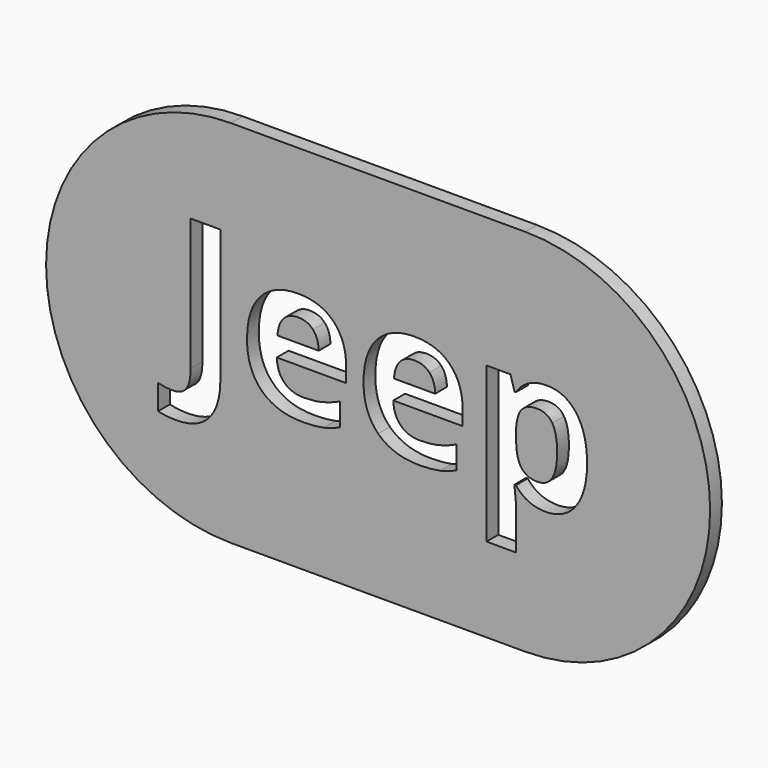
from build123d import *

# Parameters (mm, degrees)
F1_DEPTH = 2.54
F2_DEPTH = 2.54


with BuildPart() as f1:
    # F0 (on Front) → F1 (new body)
    with BuildSketch(Plane.XZ):
        with BuildLine():
            ThreePointArc((15.1273975771, 34.0092331171), (-16.7603171739, 2.121518366), (15.1273975771, -29.766196385))
            Line((15.1273975771, -29.766196385), (65.9273975771, -29.766196385))
            ThreePointArc((65.9273975771, -29.766196385), (97.8151123282, 2.121518366), (65.9273975771, 34.0092331171))
            Line((65.9273975771, 34.0092331171), (15.1273975771, 34.0092331171))
        make_face()
        with BuildLine():
            ThreePointArc((15.1273975771, -22.7641476952), (-10.2726024229, 2.6358523048), (15.1273975771, 28.0358523048))
            Line((15.1273975771, 28.0358523048), (65.9273975771, 28.0358523048))
            ThreePointArc((65.9273975771, 28.0358523048), (91.3273975771, 2.6358523048), (65.9273975771, -22.7641476952))
            Line((65.9273975771, -22.7641476952), (15.1273975771, -22.7641476952))
        make_face(mode=Mode.SUBTRACT)
        with BuildLine():
            Line((65.9273975771, 28.0358523048), (15.1273975771, 28.0358523048))
            ThreePointArc((15.1273975771, 28.0358523048), (-10.2726024229, 2.6358523048), (15.1273975771, -22.7641476952))
            Line((15.1273975771, -22.7641476952), (65.9273975771, -22.7641476952))
            ThreePointArc((65.9273975771, -22.7641476952), (91.3273975771, 2.6358523048), (65.9273975771, 28.0358523048))
        make_face()
        with BuildLine():
            add(Edge.make_bspline(
                [(11.3809680112, -11.9579570174), (9.4379583838, -14.1853743468), (5.6316796061, -14.1853743468)],
                knots=[0, 0, 0, 1, 1, 1], degree=2))
            add(Edge.make_bspline(
                [(5.6316796061, -14.1853743468), (3.8880211716, -14.1853743468), (2.5909094093, -13.8185681517)],
                knots=[0, 0, 0, 1, 1, 1], degree=2))
            Line((2.5909094093, -13.8185681517), (2.5909094093, -9.5338465109))
            add(Edge.make_bspline(
                [(2.5909094093, -9.5338465109), (3.9199173624, -9.8634404833), (5.0150199158, -9.8634404833)],
                knots=[0, 0, 0, 1, 1, 1], degree=2))
            add(Edge.make_bspline(
                [(5.0150199158, -9.8634404833), (6.710834064, -9.8634404833), (7.4417884382, -8.8082081685)],
                knots=[0, 0, 0, 1, 1, 1], degree=2))
            add(Edge.make_bspline(
                [(7.4417884382, -8.8082081685), (8.1727428124, -7.7529758537), (8.1727428124, -5.5096104288)],
                knots=[0, 0, 0, 1, 1, 1], degree=2))
            Line((8.1727428124, -5.5096104288), (8.1727428124, 17.2483217604))
            Line((8.1727428124, 17.2483217604), (13.3239776387, 17.2483217604))
            Line((13.3239776387, 17.2483217604), (13.3239776387, -5.477714238))
            add(Edge.make_bspline(
                [(13.3239776387, -5.477714238), (13.3239776387, -9.7305396879), (11.3809680112, -11.9579570174)],
                knots=[0, 0, 0, 1, 1, 1], degree=2))
        make_face(mode=Mode.SUBTRACT)
        with BuildLine():
            add(Edge.make_bspline(
                [(73.2250241017, -6.2272747235), (71.6142664625, -7.375537595), (69.4400094512, -7.375537595)],
                knots=[0, 0, 0, 1, 1, 1], degree=2))
            add(Edge.make_bspline(
                [(69.4400094512, -7.375537595), (66.1653338547, -7.375537595), (64.3047227203, -4.9992713748)],
                knots=[0, 0, 0, 1, 1, 1], degree=2))
            Line((64.3047227203, -4.9992713748), (64.0389211297, -4.9992713748))
            add(Edge.make_bspline(
                [(64.0389211297, -4.9992713748), (64.3047227203, -7.3223772769), (64.3047227203, -7.689183472)],
                knots=[0, 0, 0, 1, 1, 1], degree=2))
            Line((64.3047227203, -7.689183472), (64.3047227203, -15.2166845184))
            Line((64.3047227203, -15.2166845184), (59.238544403, -15.2166845184))
            Line((59.238544403, -15.2166845184), (59.238544403, 11.5335875619))
            Line((59.238544403, 11.5335875619), (63.3584690577, 11.5335875619))
            Line((63.3584690577, 11.5335875619), (64.0708173206, 9.1254251509))
            Line((64.0708173206, 9.1254251509), (64.3047227203, 9.1254251509))
            add(Edge.make_bspline(
                [(64.3047227203, 9.1254251509), (66.0855933775, 11.8791296298), (69.5729102465, 11.8791296298)],
                knots=[0, 0, 0, 1, 1, 1], degree=2))
            add(Edge.make_bspline(
                [(69.5729102465, 11.8791296298), (72.8635339384, 11.8791296298), (74.7241450728, 9.3380664234)],
                knots=[0, 0, 0, 1, 1, 1], degree=2))
            add(Edge.make_bspline(
                [(74.7241450728, 9.3380664234), (76.5847562071, 6.797003217), (76.5847562071, 2.2783761764)],
                knots=[0, 0, 0, 1, 1, 1], degree=2))
            add(Edge.make_bspline(
                [(76.5847562071, 2.2783761764), (76.5847562071, -0.6932856067), (75.710268974, -2.8861487294)],
                knots=[0, 0, 0, 1, 1, 1], degree=2))
            add(Edge.make_bspline(
                [(75.710268974, -2.8861487294), (74.8357817408, -5.079011852), (73.2250241017, -6.2272747235)],
                knots=[0, 0, 0, 1, 1, 1], degree=2))
        make_face(mode=Mode.SUBTRACT)
        with BuildLine():
            add(Edge.make_bspline(
                [(31.1326842105, -7.0512596545), (29.6229311758, -7.375537595), (27.4433581326, -7.375537595)],
                knots=[0, 0, 0, 1, 1, 1], degree=2))
            add(Edge.make_bspline(
                [(27.4433581326, -7.375537595), (22.9619433147, -7.375537595), (20.4368282038, -4.8982667704)],
                knots=[0, 0, 0, 1, 1, 1], degree=2))
            add(Edge.make_bspline(
                [(20.4368282038, -4.8982667704), (17.9117130929, -2.4209959458), (17.9117130929, 2.1135791902)],
                knots=[0, 0, 0, 1, 1, 1], degree=2))
            add(Edge.make_bspline(
                [(17.9117130929, 2.1135791902), (17.9117130929, 6.7810551216), (20.2454510585, 9.3300923757)],
                knots=[0, 0, 0, 1, 1, 1], degree=2))
            add(Edge.make_bspline(
                [(20.2454510585, 9.3300923757), (22.5791890242, 11.8791296298), (26.6991136789, 11.8791296298)],
                knots=[0, 0, 0, 1, 1, 1], degree=2))
            add(Edge.make_bspline(
                [(26.6991136789, 11.8791296298), (30.6329772201, 11.8791296298), (32.8258403428, 9.6384222208)],
                knots=[0, 0, 0, 1, 1, 1], degree=2))
            add(Edge.make_bspline(
                [(32.8258403428, 9.6384222208), (35.0187034654, 7.3977148118), (35.0187034654, 3.4425871434)],
                knots=[0, 0, 0, 1, 1, 1], degree=2))
            Line((35.0187034654, 3.4425871434), (35.0187034654, 0.9812644142))
            Line((35.0187034654, 0.9812644142), (23.0416837919, 0.9812644142))
            add(Edge.make_bspline(
                [(23.0416837919, 0.9812644142), (23.1267403009, -1.1770445017), (24.3228474587, -2.3890997549)],
                knots=[0, 0, 0, 1, 1, 1], degree=2))
            add(Edge.make_bspline(
                [(24.3228474587, -2.3890997549), (25.5189546165, -3.6011550082), (27.6772635324, -3.6011550082)],
                knots=[0, 0, 0, 1, 1, 1], degree=2))
            add(Edge.make_bspline(
                [(27.6772635324, -3.6011550082), (29.3571295851, -3.6011550082), (30.8509345244, -3.2529549244)],
                knots=[0, 0, 0, 1, 1, 1], degree=2))
            add(Edge.make_bspline(
                [(30.8509345244, -3.2529549244), (32.3447394637, -2.9047548407), (33.9714451984, -2.1392462597)],
                knots=[0, 0, 0, 1, 1, 1], degree=2))
            Line((33.9714451984, -2.1392462597), (33.9714451984, -6.0624777373))
            add(Edge.make_bspline(
                [(33.9714451984, -6.0624777373), (32.6424372452, -6.7269817139), (31.1326842105, -7.0512596545)],
                knots=[0, 0, 0, 1, 1, 1], degree=2))
        make_face(mode=Mode.SUBTRACT)
        with BuildLine():
            add(Edge.make_bspline(
                [(51.2326004935, -7.0512596545), (49.7228474587, -7.375537595), (47.5432744156, -7.375537595)],
                knots=[0, 0, 0, 1, 1, 1], degree=2))
            add(Edge.make_bspline(
                [(47.5432744156, -7.375537595), (43.0618595977, -7.375537595), (40.5367444868, -4.8982667704)],
                knots=[0, 0, 0, 1, 1, 1], degree=2))
            add(Edge.make_bspline(
                [(40.5367444868, -4.8982667704), (38.0116293758, -2.4209959458), (38.0116293758, 2.1135791902)],
                knots=[0, 0, 0, 1, 1, 1], degree=2))
            add(Edge.make_bspline(
                [(38.0116293758, 2.1135791902), (38.0116293758, 6.7810551216), (40.3453673415, 9.3300923757)],
                knots=[0, 0, 0, 1, 1, 1], degree=2))
            add(Edge.make_bspline(
                [(40.3453673415, 9.3300923757), (42.6791053072, 11.8791296298), (46.7990299619, 11.8791296298)],
                knots=[0, 0, 0, 1, 1, 1], degree=2))
            add(Edge.make_bspline(
                [(46.7990299619, 11.8791296298), (50.7328935031, 11.8791296298), (52.9257566257, 9.6384222208)],
                knots=[0, 0, 0, 1, 1, 1], degree=2))
            add(Edge.make_bspline(
                [(52.9257566257, 9.6384222208), (55.1186197484, 7.3977148118), (55.1186197484, 3.4425871434)],
                knots=[0, 0, 0, 1, 1, 1], degree=2))
            Line((55.1186197484, 3.4425871434), (55.1186197484, 0.9812644142))
            Line((55.1186197484, 0.9812644142), (43.1416000749, 0.9812644142))
            add(Edge.make_bspline(
                [(43.1416000749, 0.9812644142), (43.2266565839, -1.1770445017), (44.4227637417, -2.3890997549)],
                knots=[0, 0, 0, 1, 1, 1], degree=2))
            add(Edge.make_bspline(
                [(44.4227637417, -2.3890997549), (45.6188708995, -3.6011550082), (47.7771798154, -3.6011550082)],
                knots=[0, 0, 0, 1, 1, 1], degree=2))
            add(Edge.make_bspline(
                [(47.7771798154, -3.6011550082), (49.4570458681, -3.6011550082), (50.9508508074, -3.2529549244)],
                knots=[0, 0, 0, 1, 1, 1], degree=2))
            add(Edge.make_bspline(
                [(50.9508508074, -3.2529549244), (52.4446557467, -2.9047548407), (54.0713614813, -2.1392462597)],
                knots=[0, 0, 0, 1, 1, 1], degree=2))
            Line((54.0713614813, -2.1392462597), (54.0713614813, -6.0624777373))
            add(Edge.make_bspline(
                [(54.0713614813, -6.0624777373), (52.7423535282, -6.7269817139), (51.2326004935, -7.0512596545)],
                knots=[0, 0, 0, 1, 1, 1], degree=2))
        make_face(mode=Mode.SUBTRACT)
    extrude(amount=F1_DEPTH)


with BuildPart() as f2:
    # F0 (on Front) → F2 (new body)
    with BuildSketch(Plane.XZ):
        with BuildLine():
            add(Edge.make_bspline(
                [(70.5776402591, 6.456777181), (69.7377072327, 7.8283133887), (67.9462045119, 7.8283133887)],
                knots=[0, 0, 0, 1, 1, 1], degree=2))
            add(Edge.make_bspline(
                [(67.9462045119, 7.8283133887), (66.0643292503, 7.8283133887), (65.2004740807, 6.6747344853)],
                knots=[0, 0, 0, 1, 1, 1], degree=2))
            add(Edge.make_bspline(
                [(65.2004740807, 6.6747344853), (64.3366189112, 5.521155582), (64.3047227203, 2.8631396758)],
                knots=[0, 0, 0, 1, 1, 1], degree=2))
            Line((64.3047227203, 2.8631396758), (64.3047227203, 2.3102723673))
            add(Edge.make_bspline(
                [(64.3047227203, 2.3102723673), (64.3047227203, -0.6773375113), (65.1951580489, -1.9744492735)],
                knots=[0, 0, 0, 1, 1, 1], degree=2))
            add(Edge.make_bspline(
                [(65.1951580489, -1.9744492735), (66.0855933775, -3.2715610358), (68.0099968936, -3.2715610358)],
                knots=[0, 0, 0, 1, 1, 1], degree=2))
            add(Edge.make_bspline(
                [(68.0099968936, -3.2715610358), (71.4175732854, -3.2715610358), (71.4175732854, 2.34748459)],
                knots=[0, 0, 0, 1, 1, 1], degree=2))
            add(Edge.make_bspline(
                [(71.4175732854, 2.34748459), (71.4175732854, 5.0852409734), (70.5776402591, 6.456777181)],
                knots=[0, 0, 0, 1, 1, 1], degree=2))
        make_face()
    extrude(amount=F2_DEPTH)


with BuildPart() as f2b:
    # F0 (on Front) → F2, piece 2 (new body)
    with BuildSketch(Plane.XZ):
        with BuildLine():
            add(Edge.make_bspline(
                [(29.2880211716, 7.2541819529), (28.3417675089, 8.2748600609), (26.7310098698, 8.2748600609)],
                knots=[0, 0, 0, 1, 1, 1], degree=2))
            add(Edge.make_bspline(
                [(26.7310098698, 8.2748600609), (25.1202522306, 8.2748600609), (24.2058947588, 7.2541819529)],
                knots=[0, 0, 0, 1, 1, 1], degree=2))
            add(Edge.make_bspline(
                [(24.2058947588, 7.2541819529), (23.2915372871, 6.2335038449), (23.1586364918, 4.3569446151)],
                knots=[0, 0, 0, 1, 1, 1], degree=2))
            Line((23.1586364918, 4.3569446151), (30.2714870569, 4.3569446151))
            add(Edge.make_bspline(
                [(30.2714870569, 4.3569446151), (30.2342748342, 6.2335038449), (29.2880211716, 7.2541819529)],
                knots=[0, 0, 0, 1, 1, 1], degree=2))
        make_face()
    extrude(amount=F2_DEPTH)


with BuildPart() as f2c:
    # F0 (on Front) → F2, piece 3 (new body)
    with BuildSketch(Plane.XZ):
        with BuildLine():
            add(Edge.make_bspline(
                [(49.3879374545, 7.2541819529), (48.4416837919, 8.2748600609), (46.8309261527, 8.2748600609)],
                knots=[0, 0, 0, 1, 1, 1], degree=2))
            add(Edge.make_bspline(
                [(46.8309261527, 8.2748600609), (45.2201685136, 8.2748600609), (44.3058110418, 7.2541819529)],
                knots=[0, 0, 0, 1, 1, 1], degree=2))
            add(Edge.make_bspline(
                [(44.3058110418, 7.2541819529), (43.3914535701, 6.2335038449), (43.2585527747, 4.3569446151)],
                knots=[0, 0, 0, 1, 1, 1], degree=2))
            Line((43.2585527747, 4.3569446151), (50.3714033398, 4.3569446151))
            add(Edge.make_bspline(
                [(50.3714033398, 4.3569446151), (50.3341911172, 6.2335038449), (49.3879374545, 7.2541819529)],
                knots=[0, 0, 0, 1, 1, 1], degree=2))
        make_face()
    extrude(amount=F2_DEPTH)


solid = Compound([f1.part, f2.part, f2b.part, f2c.part])
